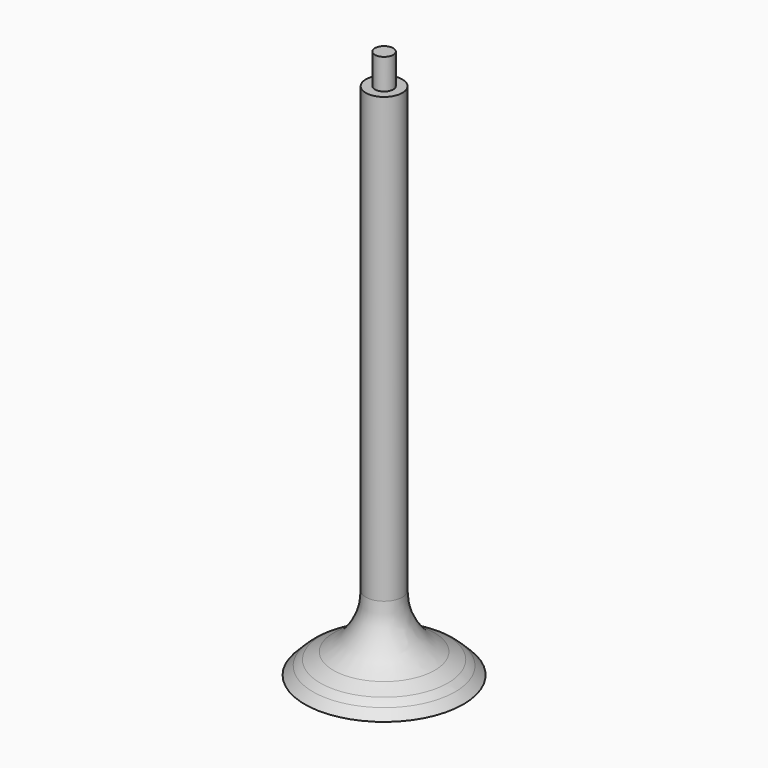
from build123d import *

# Parameters (mm, degrees)
F2_R = 10
F3_R = 5


with BuildPart() as f1:
    # F0 (on Front) → F1 (revolve)
    with BuildSketch(Plane.XZ):
        Polygon((0, 90), (0, 0), (13, 0), (11.11462, 1.88538), (3, 6.2), (3, 85), (1.5, 85), (1.5, 90), align=None)
    revolve(axis=Axis((0, 0, 45), (0, 0, -1)))

    # F2
    f2_edges = [f1.edges().sort_by_distance(p)[0] for p in [
        (-3, 0, 6.2),
    ]]
    fillet(f2_edges, radius=F2_R)

    # F3
    f3_edges = [f1.edges().sort_by_distance(p)[0] for p in [
        (-11.11462, 0, 1.88538),
    ]]
    fillet(f3_edges, radius=F3_R)


solid = f1.part
